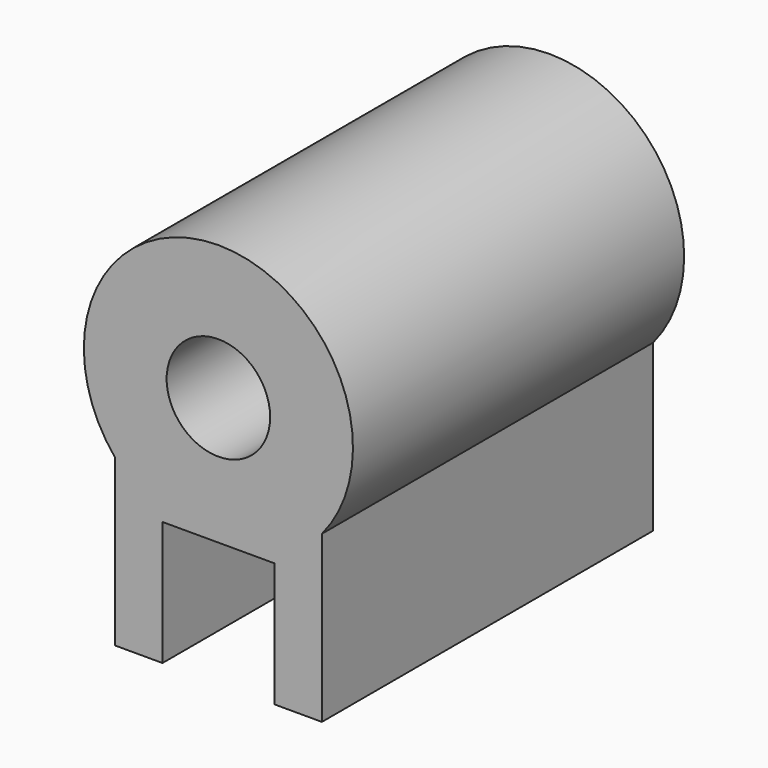
from build123d import *

# Parameters (mm, degrees)
F0_R     = 2.5
F1_DEPTH = 20


with BuildPart() as f1:
    # F0 (on Front) → F1 (new body)
    with BuildSketch(Plane.XZ):
        with BuildLine():
            Line((5, -12.153312), (5, -4.153312))
            ThreePointArc((5, -4.153312), (0, 6.5), (-5, -4.153312))
            Line((-5, -4.153312), (-5, -12.153312))
            Line((-5, -12.153312), (-2.7, -12.153312))
            Line((-2.7, -12.153312), (-2.7, -6.153312))
            Line((-2.7, -6.153312), (2.7, -6.153312))
            Line((2.7, -6.153312), (2.7, -12.153312))
            Line((2.7, -12.153312), (5, -12.153312))
        make_face()
        Circle(F0_R, mode=Mode.SUBTRACT)
    extrude(amount=F1_DEPTH)


solid = f1.part
